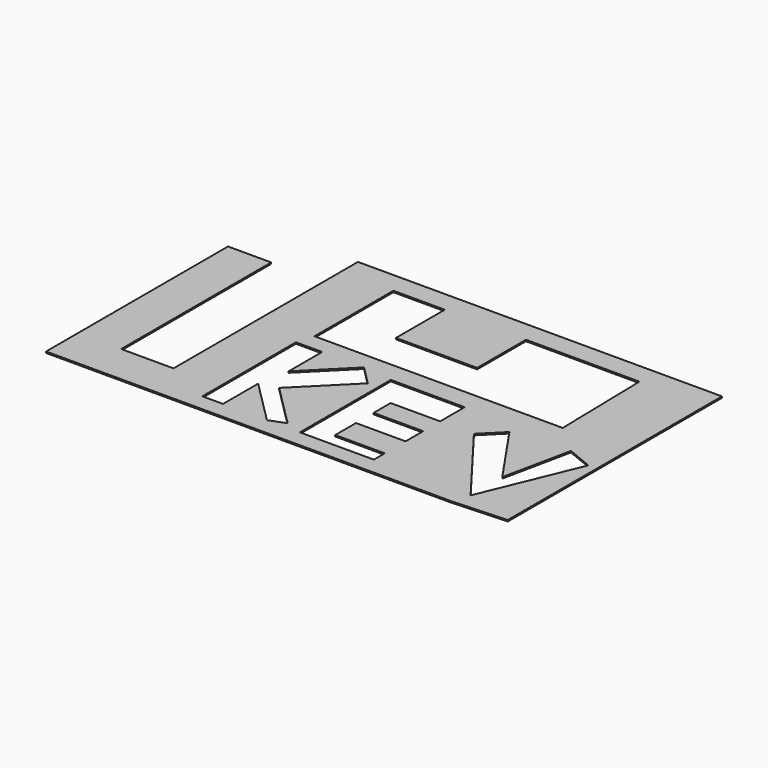
from build123d import *

# Parameters (mm, degrees)
F1_DEPTH = 0.5


with BuildPart() as f1:
    # F0 (on Top) → F1 (new body)
    with BuildSketch(Plane.XY):
        Polygon((-66.872783, 38.888026), (-71.820803, 38.888026), (-71.820803, -43.184049), (-49.409188, -43.184049), (74.582316, -43.184049), (94.03079, -42.214803), (94.03079, 54.406803), (-37.338004, 54.406803), (-37.338004, -28.803602), (-56.235604, -28.803602), (-56.235604, 38.888026), align=None)
        Polygon((-20.342959, -34.482725), (-20.342959, 5.187259), (-10.873349, 5.187259), (-10.873349, -9.912928), (4.226838, 5.187259), (11.137093, -1.722996), (-6.650416, -19.510505), (8.705707, -34.866628), (2.97179, -37.0332), (-12.725409, -21.336), (-12.877809, -21.4884), (-12.877809, -37.0332), (-20.342959, -37.0332), align=None, mode=Mode.SUBTRACT)
        Polygon((14.869113, -37.0332), (14.869113, 3.954364), (41.550208, 3.954364), (41.550208, -7.115452), (23.668198, -7.115452), (23.668198, -14.779169), (41.550208, -14.779169), (41.550208, -22.72673), (23.668198, -22.72673), (23.668198, -32.093499), (41.550208, -32.093499), (41.550208, -37.0332), align=None, mode=Mode.SUBTRACT)
        Polygon((53.735977, -7.115452), (60.851429, 0), (76.462701, -22.72673), (81.619696, 1.845015), (90.938613, -2.006306), (76.462701, -37.0332), align=None, mode=Mode.SUBTRACT)
        Polygon((-18.551411, 11.329709), (-18.551411, 46.904724), (0, 46.904724), (0, 24.894282), (29.308505, 24.894282), (29.308505, 46.904724), (70.258163, 46.904724), (71.025968, 11.329709), align=None, mode=Mode.SUBTRACT)
    extrude(amount=F1_DEPTH)


solid = f1.part
